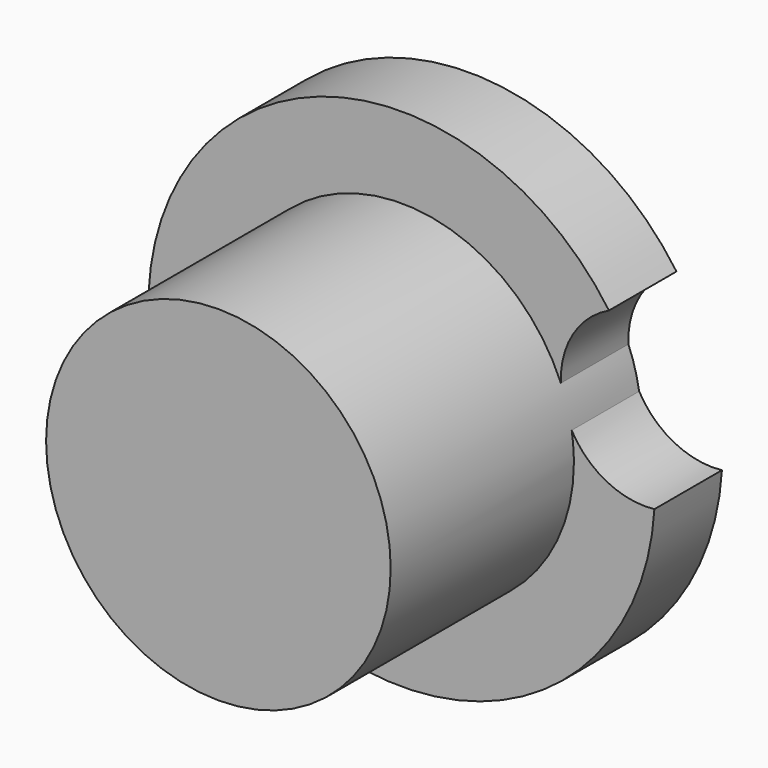
from build123d import *

# Parameters (mm, degrees)
F2_DEPTH = 25
F0_R     = 51.030989
F3_DEPTH = 92.821598


with BuildPart() as f2:
    # F1 (on Front) → F2 (new body)
    with BuildSketch(Plane.XZ):
        with BuildLine():
            ThreePointArc((74.871618, -4.386429), (48.102518, 13.643599), (61.418848, 43.043293))
            ThreePointArc((61.418848, 43.043293), (-72.153777, -20.465398), (74.871618, -4.386429))
        make_face()
    extrude(amount=F2_DEPTH)

    # F0 (on Front) → F3 (join)
    with BuildSketch(Plane.XZ):
        Circle(F0_R)
    extrude(amount=F3_DEPTH)


solid = f2.part
